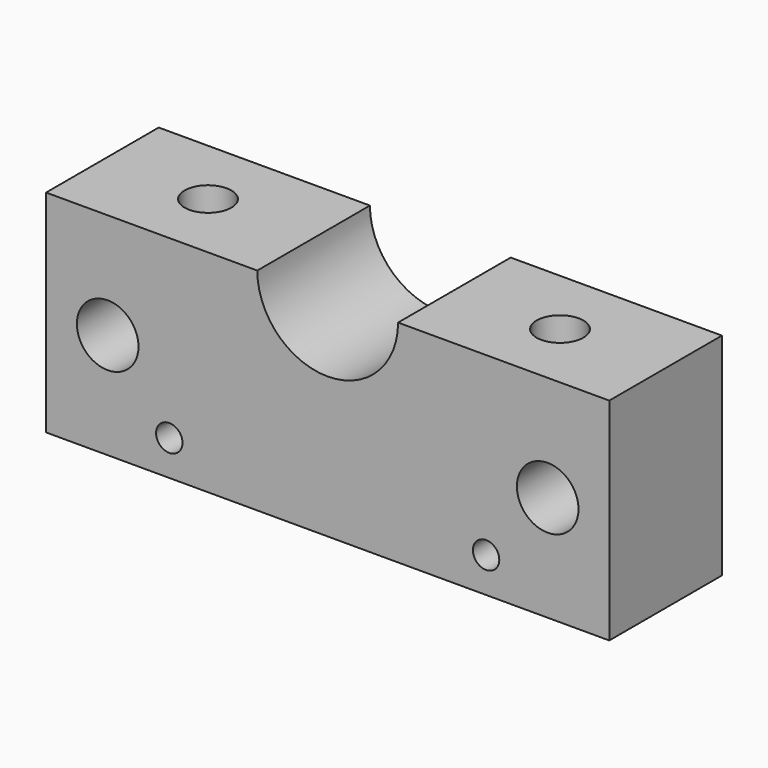
from build123d import *

# Parameters (mm, degrees)
F0_R     = 2.38125
F0_R_2   = 5.55625
F1_DEPTH = 25.4
F3_D     = 8.4328
F3_DEPTH = 12.7
F3_TIP   = 2.5334687141


with BuildPart() as f1:
    # F0 (on Front) → F1 (new body)
    with BuildSketch(Plane.XZ):
        with BuildLine():
            Line((0, 38.1), (0, 0))
            Line((0, 0), (101.6, 0))
            Line((101.6, 0), (101.6, 38.1))
            Line((101.6, 38.1), (63.5, 38.1))
            ThreePointArc((63.5, 38.1), (50.8, 25.4), (38.1, 38.1))
            Line((38.1, 38.1), (0, 38.1))
        make_face()
        with Locations((22.225, 6.35)):
            Circle(F0_R, mode=Mode.SUBTRACT)
        with Locations((79.375, 6.35)):
            Circle(F0_R, mode=Mode.SUBTRACT)
        with Locations((11.1125, 19.05)):
            Circle(F0_R_2, mode=Mode.SUBTRACT)
        with Locations((90.4875, 19.05)):
            Circle(F0_R_2, mode=Mode.SUBTRACT)
    extrude(amount=F1_DEPTH)

    # F3
    with Locations(Plane.XY.offset(38.1)):
        with Locations((19.05, -12.7), (82.55, -12.7)):
            Hole(F3_D / 2, depth=F3_DEPTH)
            with Locations((0, 0, -(F3_DEPTH + F3_TIP / 2))):  # 118° drill point
                Cone(0, F3_D / 2, F3_TIP, mode=Mode.SUBTRACT)


solid = f1.part
